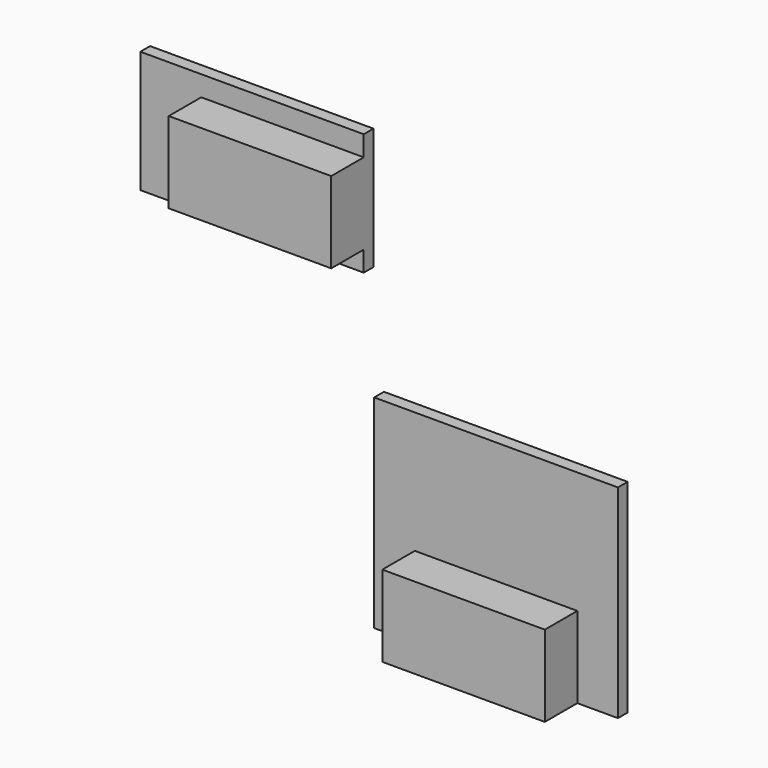
from build123d import *

# Parameters (mm, degrees)
F0_W     = 40
F0_H     = 20
F1_W     = 40
F1_H     = 20
F2_DEPTH = 3
F3_DEPTH = 10


with BuildPart() as f2:
    # F0 (on Front) + F1 (on Front) → F2 (new body)
    with BuildSketch(Plane.XZ):
        Polygon((30, 50), (-30, 50), (-30, 0), (-20, 0), (-20, 20), (20, 20), (20, 0), (30, 0), align=None)
        with Locations((0, 10)):
            Rectangle(F0_W, F0_H)
    with BuildSketch(Plane.XZ):
        Polygon((-32.57548, 106.193823), (-87.57548, 106.193823), (-87.57548, 76.193823), (-32.57548, 76.193823), (-32.57548, 81.193823), (-72.57548, 81.193823), (-72.57548, 101.193823), (-32.57548, 101.193823), align=None)
        with Locations((-52.57548, 91.193823)):
            Rectangle(F1_W, F1_H)
    extrude(amount=-F2_DEPTH)

    # F0 (on Front) + F1 (on Front) → F3 (join)
    with BuildSketch(Plane.XZ):
        with Locations((0, 10)):
            Rectangle(F0_W, F0_H)
    with BuildSketch(Plane.XZ):
        with Locations((-52.57548, 91.193823)):
            Rectangle(F1_W, F1_H)
    extrude(amount=F3_DEPTH)


solid = f2.part
